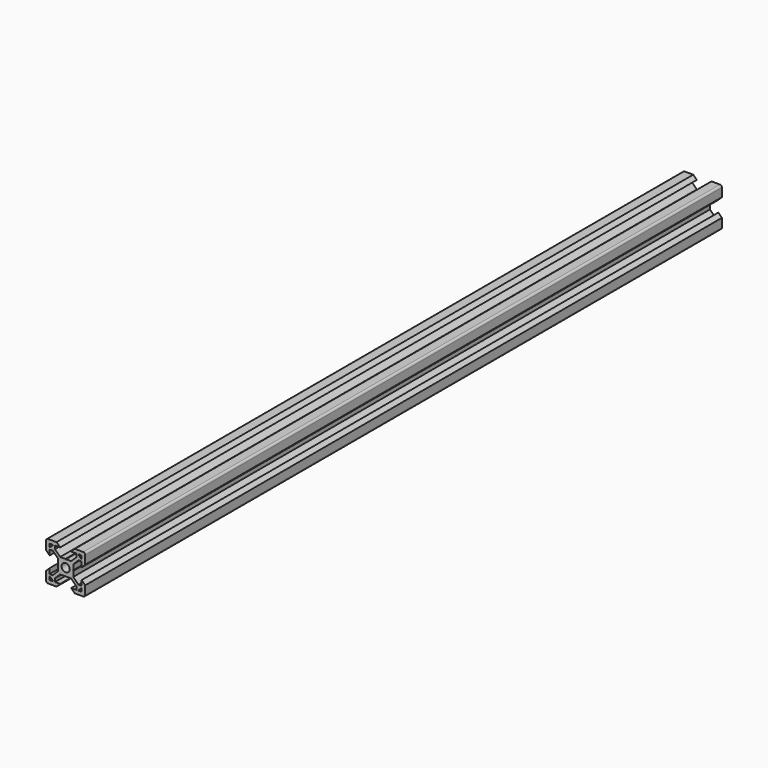
from build123d import *

# Parameters (mm, degrees)
F0_R     = 2.1
F1_DEPTH = 406.4


with BuildPart() as f1:
    # F0 (on Front) → F1 (new body)
    with BuildSketch(Plane.XZ):
        with BuildLine():
            Line((-4.64, 10), (-9, 10))
            ThreePointArc((-9, 10), (-9.707107, 9.707107), (-10, 9))
            Line((-10, 9), (-10, 4.64))
            Line((-10, 4.64), (-8.2, 2.84))
            Line((-8.2, 2.84), (-8.2, 5.49934))
            Line((-8.2, 5.49934), (-6.56, 5.49934))
            Line((-6.56, 5.49934), (-3.90066, 2.84))
            Line((-3.90066, 2.84), (-3.90066, 0.15))
            Line((-3.90066, 0.15), (-3.75066, 0))
            Line((-3.75066, 0), (-3.90066, -0.15))
            Line((-3.90066, -0.15), (-3.90066, -2.84))
            Line((-3.90066, -2.84), (-6.56, -5.49934))
            Line((-6.56, -5.49934), (-8.2, -5.49934))
            Line((-8.2, -5.49934), (-8.2, -2.84))
            Line((-8.2, -2.84), (-10, -4.64))
            Line((-10, -4.64), (-10, -9))
            ThreePointArc((-10, -9), (-9.707107, -9.707107), (-9, -10))
            Line((-9, -10), (-4.64, -10))
            Line((-4.64, -10), (-2.84, -8.2))
            Line((-2.84, -8.2), (-5.49934, -8.2))
            Line((-5.49934, -8.2), (-5.49934, -6.56))
            Line((-5.49934, -6.56), (-2.84, -3.90066))
            Line((-2.84, -3.90066), (-0.15, -3.90066))
            Line((-0.15, -3.90066), (0, -3.75066))
            Line((0, -3.75066), (0.15, -3.90066))
            Line((0.15, -3.90066), (2.84, -3.90066))
            Line((2.84, -3.90066), (5.49934, -6.56))
            Line((5.49934, -6.56), (5.49934, -8.2))
            Line((5.49934, -8.2), (2.84, -8.2))
            Line((2.84, -8.2), (4.64, -10))
            Line((4.64, -10), (9, -10))
            ThreePointArc((9, -10), (9.707107, -9.707107), (10, -9))
            Line((10, -9), (10, -4.64))
            Line((10, -4.64), (8.2, -2.84))
            Line((8.2, -2.84), (8.2, -5.49934))
            Line((8.2, -5.49934), (6.56, -5.49934))
            Line((6.56, -5.49934), (3.90066, -2.84))
            Line((3.90066, -2.84), (3.90066, -0.15))
            Line((3.90066, -0.15), (3.75066, 0))
            Line((3.75066, 0), (3.90066, 0.15))
            Line((3.90066, 0.15), (3.90066, 2.84))
            Line((3.90066, 2.84), (6.56, 5.49934))
            Line((6.56, 5.49934), (8.2, 5.49934))
            Line((8.2, 5.49934), (8.2, 2.84))
            Line((8.2, 2.84), (10, 4.64))
            Line((10, 4.64), (10, 9))
            ThreePointArc((10, 9), (9.707107, 9.707107), (9, 10))
            Line((9, 10), (4.64, 10))
            Line((4.64, 10), (2.84, 8.2))
            Line((2.84, 8.2), (5.49934, 8.2))
            Line((5.49934, 8.2), (5.49934, 6.56))
            Line((5.49934, 6.56), (2.84, 3.90066))
            Line((2.84, 3.90066), (0.15, 3.90066))
            Line((0.15, 3.90066), (0, 3.75066))
            Line((0, 3.75066), (-0.15, 3.90066))
            Line((-0.15, 3.90066), (-2.84, 3.90066))
            Line((-2.84, 3.90066), (-5.49934, 6.56))
            Line((-5.49934, 6.56), (-5.49934, 8.2))
            Line((-5.49934, 8.2), (-2.84, 8.2))
            Line((-2.84, 8.2), (-4.64, 10))
        make_face()
        with BuildLine():
            Line((-8.2, -8.2), (-8.2, -6.71))
            ThreePointArc((-8.2, -6.71), (-8.156066, -6.603934), (-8.05, -6.56))
            Line((-8.05, -6.56), (-7.98749, -6.56))
            Line((-7.98749, -6.56), (-6.603934, -7.943556))
            ThreePointArc((-6.603934, -7.943556), (-6.571418, -7.992219), (-6.56, -8.049622))
            Line((-6.56, -8.049622), (-6.56, -8.05))
            ThreePointArc((-6.56, -8.05), (-6.603934, -8.156066), (-6.71, -8.2))
            Line((-6.71, -8.2), (-8.2, -8.2))
        make_face(mode=Mode.SUBTRACT)
        with BuildLine():
            ThreePointArc((6.71, -8.2), (6.603934, -8.156066), (6.56, -8.05))
            Line((6.56, -8.05), (6.56, -7.98749))
            Line((6.56, -7.98749), (7.943556, -6.603934))
            ThreePointArc((7.943556, -6.603934), (7.992219, -6.571418), (8.049622, -6.56))
            Line((8.049622, -6.56), (8.2, -6.56))
            Line((8.2, -6.56), (8.2, -8.05))
            ThreePointArc((8.2, -8.05), (8.156066, -8.156066), (8.05, -8.2))
            Line((8.05, -8.2), (6.71, -8.2))
        make_face(mode=Mode.SUBTRACT)
        with BuildLine():
            ThreePointArc((-8.2, 8.05), (-8.156066, 8.156066), (-8.05, 8.2))
            Line((-8.05, 8.2), (-6.71, 8.2))
            ThreePointArc((-6.71, 8.2), (-6.603934, 8.156066), (-6.56, 8.05))
            Line((-6.56, 8.05), (-6.56, 8.049622))
            ThreePointArc((-6.56, 8.049622), (-6.571418, 7.992219), (-6.603934, 7.943556))
            Line((-6.603934, 7.943556), (-7.943556, 6.603934))
            ThreePointArc((-7.943556, 6.603934), (-7.992219, 6.571418), (-8.049622, 6.56))
            Line((-8.049622, 6.56), (-8.05, 6.56))
            ThreePointArc((-8.05, 6.56), (-8.156066, 6.603934), (-8.2, 6.71))
            Line((-8.2, 6.71), (-8.2, 8.05))
        make_face(mode=Mode.SUBTRACT)
        Circle(F0_R, mode=Mode.SUBTRACT)
        with BuildLine():
            Line((8.2, 8.05), (8.2, 6.71))
            ThreePointArc((8.2, 6.71), (8.156066, 6.603934), (8.05, 6.56))
            Line((8.05, 6.56), (7.98749, 6.56))
            Line((7.98749, 6.56), (6.56, 7.98749))
            Line((6.56, 7.98749), (6.56, 8.05))
            ThreePointArc((6.56, 8.05), (6.603934, 8.156066), (6.71, 8.2))
            Line((6.71, 8.2), (8.05, 8.2))
            ThreePointArc((8.05, 8.2), (8.156066, 8.156066), (8.2, 8.05))
        make_face(mode=Mode.SUBTRACT)
    extrude(amount=F1_DEPTH)


solid = f1.part
